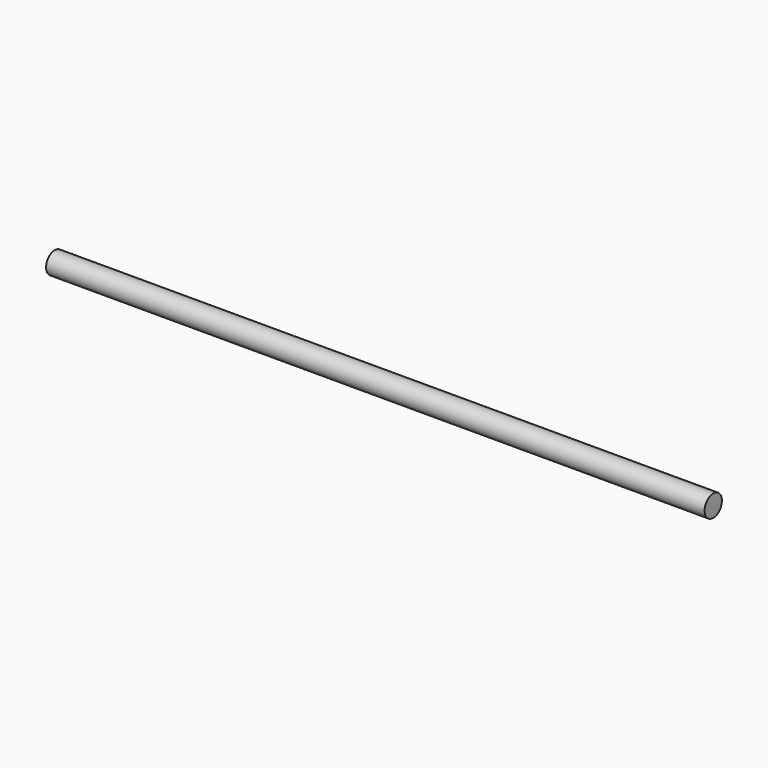
from build123d import *

# Parameters (mm, degrees)
SKETCH_R  = 6.9
PAD_DEPTH = 210


with BuildPart() as part:
    # Sketch → Pad (new body, symmetric)
    with BuildSketch(Plane.YZ):
        Circle(SKETCH_R)
    extrude(amount=PAD_DEPTH, both=True)


solid = part.part
